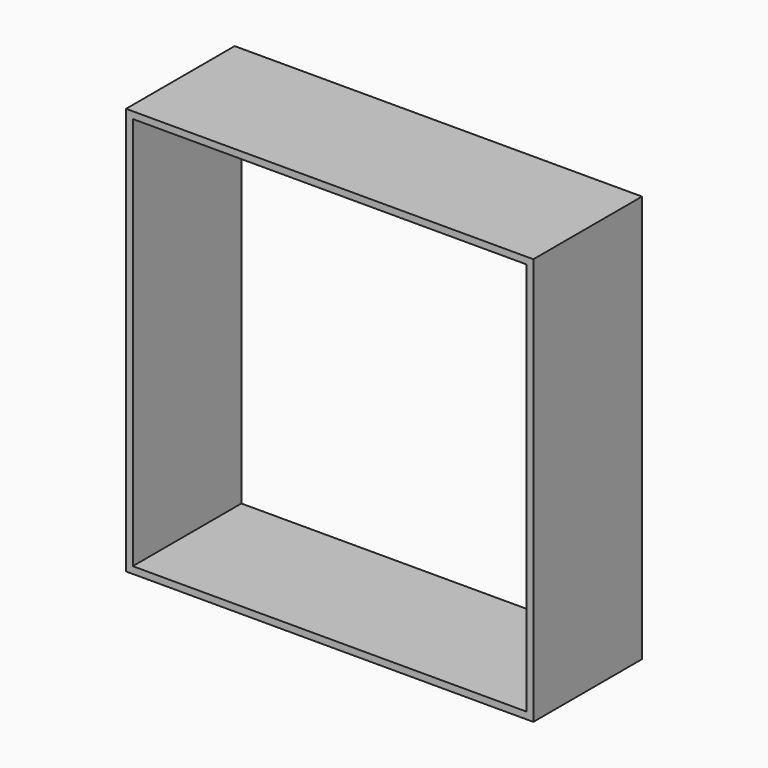
from build123d import *

# Parameters (mm, degrees)
F0_W     = 76.2
F0_H     = 76.2
F1_DEPTH = 609.6
F3_DEPTH = 914.4
F4_DEPTH = 304.8
F5_DEPTH = 508
F6_DEPTH = 381


with BuildPart() as f1:
    # F0 (on Front) → F1 (new body)
    with BuildSketch(Plane.XZ):
        with Locations((-79.1539917648, 51.4746750653)):
            Rectangle(F0_W, F0_H)
    extrude(amount=F1_DEPTH)

    # F2 (on face) → F3 (cut)
    with BuildSketch(Plane.XZ.offset(609.6)):
        Polygon((-42.3204526305, 88.3055701852), (-98.6881405115, 88.3055701852), (-115.9909814596, 88.3055701852), (-115.9909814596, 14.655277133), (-42.3204526305, 14.655277133), align=None)
    extrude(amount=-F3_DEPTH, mode=Mode.SUBTRACT)

    # F4 (add): a face of the model
    f4_faces = [f1.faces().sort_by_distance(p)[0] for p in [
        (-42.1316224993, -609.6, 51.4746750653),
    ]]
    extrude(f4_faces, amount=F4_DEPTH)

    # F5 (cut): a face of the model
    f5_faces = [f1.faces().sort_by_distance(p)[0] for p in [
        (-42.1316224993, 0, 51.4746750653),
    ]]
    extrude(f5_faces, amount=-F5_DEPTH, mode=Mode.SUBTRACT)

    # F6 (cut): a face of the model
    f6_faces = [f1.faces().sort_by_distance(p)[0] for p in [
        (-42.1316224993, -508, 51.4746750653),
    ]]
    extrude(f6_faces, amount=-F6_DEPTH, mode=Mode.SUBTRACT)


solid = f1.part
